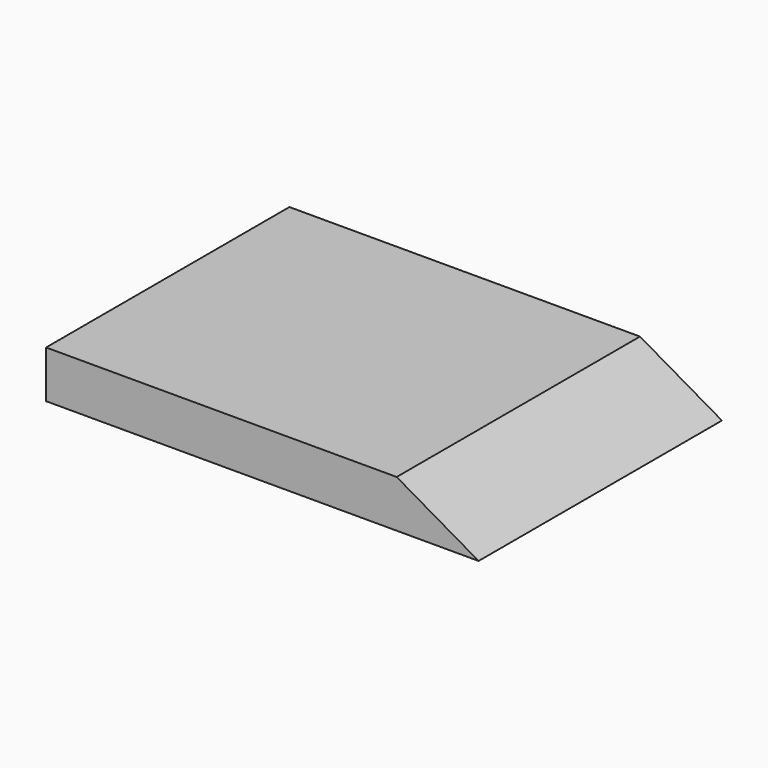
from build123d import *

# Parameters (mm, degrees)
F0_W     = 285.75
F0_H     = 44.45
F1_DEPTH = 203.2
F3_DEPTH = 203.2


with BuildPart() as f1:
    # F0 (on Right) → F1 (new body, symmetric)
    with BuildSketch(Plane.YZ):
        Rectangle(F0_W, F0_H)
    extrude(amount=F1_DEPTH, both=True)

    # F2 (on Front) → F3 (cut, symmetric)
    with BuildSketch(Plane.XZ):
        Polygon((228.6, -36.889697), (228.6, 47.625), (82.216251, 47.625), align=None)
    extrude(amount=F3_DEPTH, both=True, mode=Mode.SUBTRACT)


solid = f1.part
